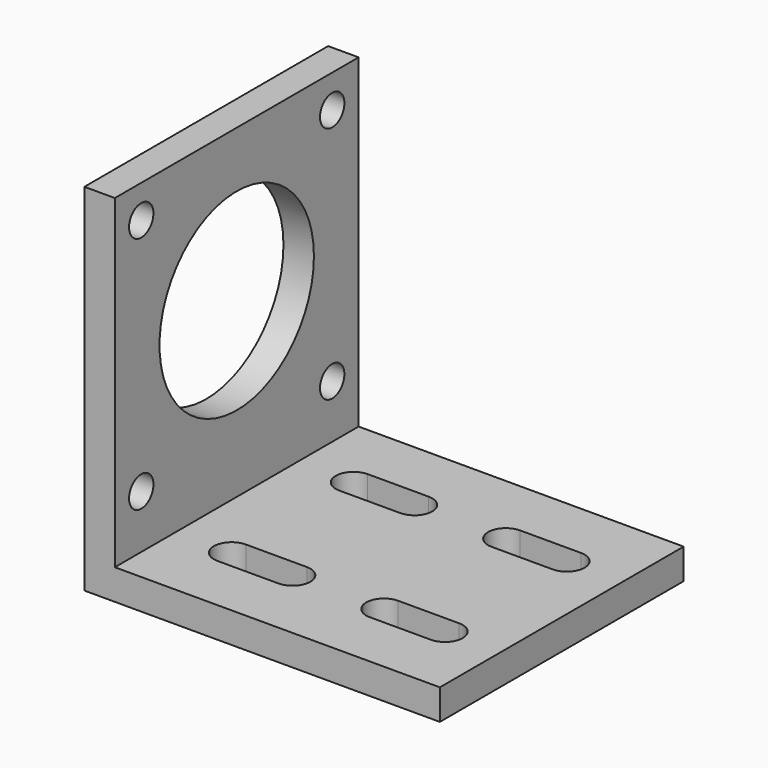
from build123d import *

# Parameters (mm, degrees)
F1_DEPTH      = 30
F1_DEPTH_BACK = 30
F2_R          = 19
F2_R_2        = 3
F3_DEPTH      = 6.001
F5_DEPTH      = 25


with BuildPart() as f1:
    # F0 (on Front) → F1 (new body, two sides)
    with BuildSketch(Plane.XZ) as f1_sk:
        Polygon((0, 70), (0, 0), (70, 0), (70, 6), (6, 6), (6, 70), align=None)
    extrude(amount=F1_DEPTH)
    extrude(f1_sk.sketch, amount=-F1_DEPTH_BACK)

    # F2 (on face) → F3 (cut, through all)
    with BuildSketch(Plane.YZ.offset(6)):
        with Locations((0, 40)):
            Circle(F2_R)
        with Locations((-23.5, 63.5)):
            Circle(F2_R_2)
        with Locations((-23.5, 16.5)):
            Circle(F2_R_2)
        with Locations((23.5, 16.5)):
            Circle(F2_R_2)
        with Locations((23.5, 63.5)):
            Circle(F2_R_2)
    extrude(amount=-F3_DEPTH, mode=Mode.SUBTRACT)

    # F4 (on face) → F5 (cut)
    with BuildSketch(Plane.XY.offset(6)):
        with BuildLine():
            ThreePointArc((29, -18.5), (32.5, -15), (29, -11.5))
            Line((29, -11.5), (17, -11.5))
            ThreePointArc((17, -11.5), (13.5, -15), (17, -18.5))
            Line((17, -18.5), (29, -18.5))
        make_face()
        with BuildLine():
            ThreePointArc((59, -18.5), (62.5, -15), (59, -11.5))
            Line((59, -11.5), (47, -11.5))
            ThreePointArc((47, -11.5), (43.5, -15), (47, -18.5))
            Line((47, -18.5), (59, -18.5))
        make_face()
        with BuildLine():
            Line((47, 11.5), (59, 11.5))
            ThreePointArc((59, 11.5), (62.5, 15), (59, 18.5))
            Line((59, 18.5), (47, 18.5))
            ThreePointArc((47, 18.5), (43.5, 15), (47, 11.5))
        make_face()
        with BuildLine():
            ThreePointArc((29, 11.5), (32.5, 15), (29, 18.5))
            Line((29, 18.5), (17, 18.5))
            ThreePointArc((17, 18.5), (13.5, 15), (17, 11.5))
            Line((17, 11.5), (29, 11.5))
        make_face()
    extrude(amount=-F5_DEPTH, mode=Mode.SUBTRACT)


solid = f1.part
